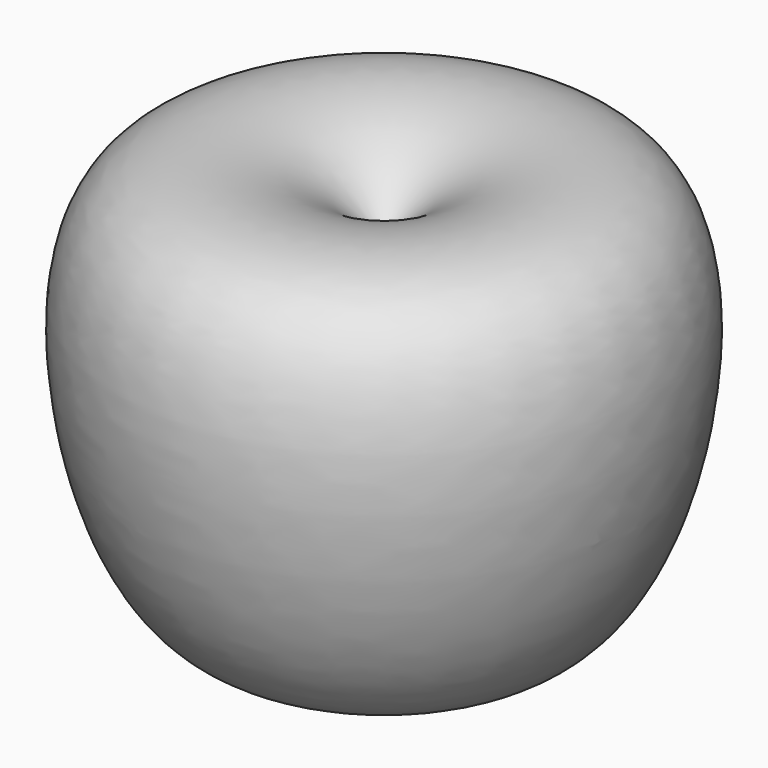
from build123d import *


with BuildPart() as f1:
    # F0 (on Front) → F1 (revolve)
    with BuildSketch(Plane.XZ):
        with BuildLine():
            add(Edge.make_bspline(
                [(0, -38.8283804059), (-4.4345087027, -52.2376538413), (-13.5109810962, -79.6835127432), (-73.4753962287, -84.5464917224), (-106.0023281202, -1.7275333139), (-98.6122544582, 81.8079879385), (-30.3480420878, 82.4800021188), (-9.761603331, 61.9680894069), (0, 52.2418245673)],
                knots=[0, 0, 0, 0, 0.1425579923, 0.2917851262, 0.4975055035, 0.6901034207, 0.853054357, 1, 1, 1, 1], degree=3))
            Line((0, -38.8283804059), (0, 52.2418245673))
        make_face()
    revolve(axis=Axis((0, 0, 6.7067220807), (0, 0, -1)))


solid = f1.part
